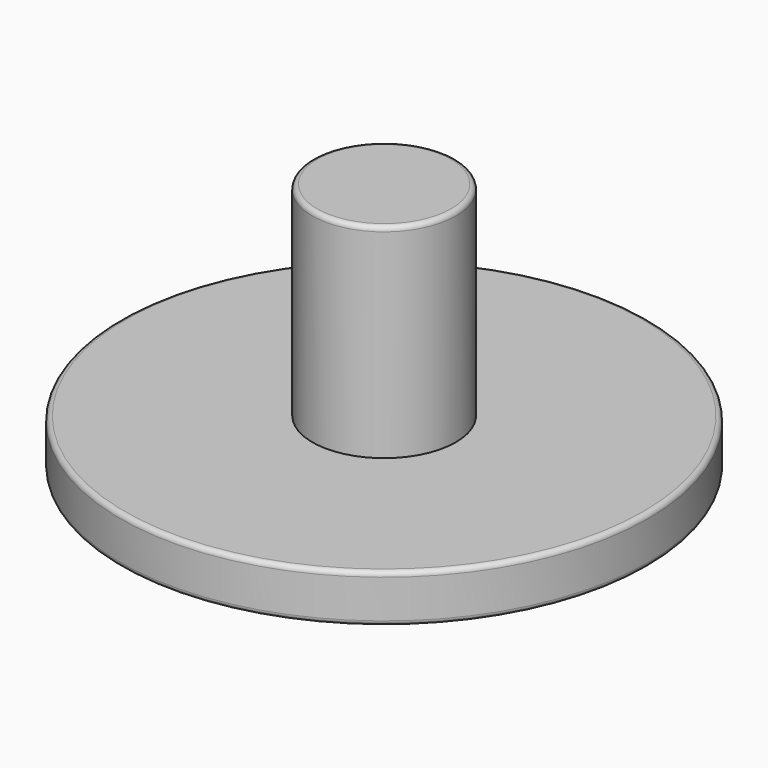
from build123d import *

# Parameters (mm, degrees)
F0_R     = 11
F1_DEPTH = 2
F2_R     = 2.99
F3_DEPTH = 8.5
F4_R     = 0.2


with BuildPart() as f1:
    # F0 (on Top) → F1 (new body)
    with BuildSketch(Plane.XY):
        Circle(F0_R)
    extrude(amount=F1_DEPTH)

    # F2 (on face) → F3 (join)
    with BuildSketch(Plane.XY.offset(2)):
        Circle(F2_R)
    extrude(amount=F3_DEPTH)

    # F4
    f4_edges = [f1.edges().sort_by_distance(p)[0] for p in [
        (-11, 0, 2),
        (-11, 0, 0),
        (-2.99, 0, 10.5),
    ]]
    fillet(f4_edges, radius=F4_R)


solid = f1.part
